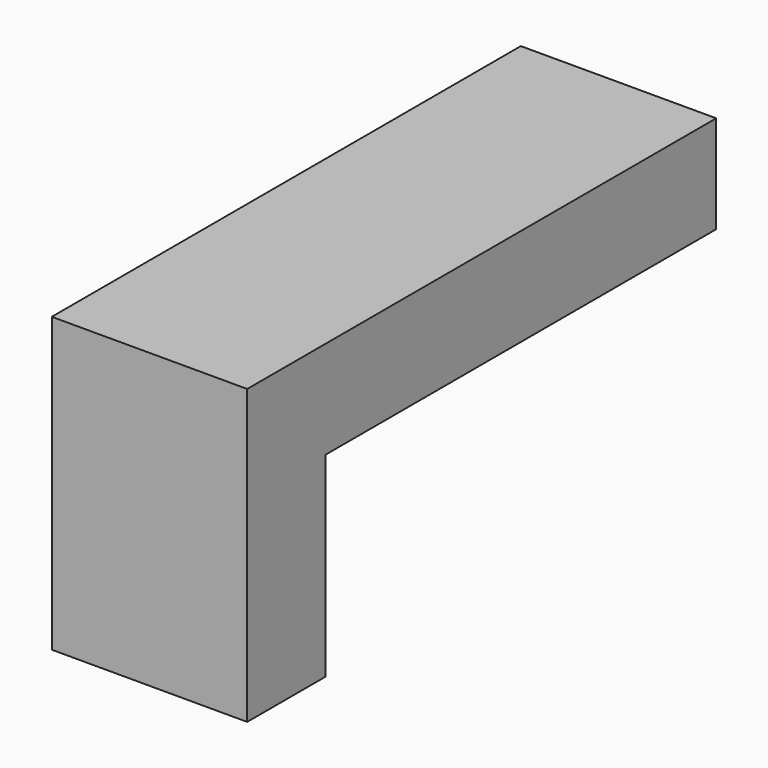
from build123d import *

# Parameters (mm, degrees)
F1_DEPTH = 50.8
F3_DEPTH = 25.4


with BuildPart() as f1:
    # F0 (on Right) → F1 (new body)
    with BuildSketch(Plane.YZ):
        Polygon((0, 76.2), (0, 0), (25.4, 0), (25.4, 50.8), (152.4, 50.8), (152.4, 76.2), align=None)
    extrude(amount=F1_DEPTH)


with BuildPart() as f3:
    # F2 (on Right) → F3 (new body)
    with BuildSketch(Plane.YZ):
        Polygon((76.2, 50.8), (25.4, 50.8), (25.4, 25.4), align=None)
    extrude(amount=F3_DEPTH)


solid = Compound([f1.part, f3.part])
